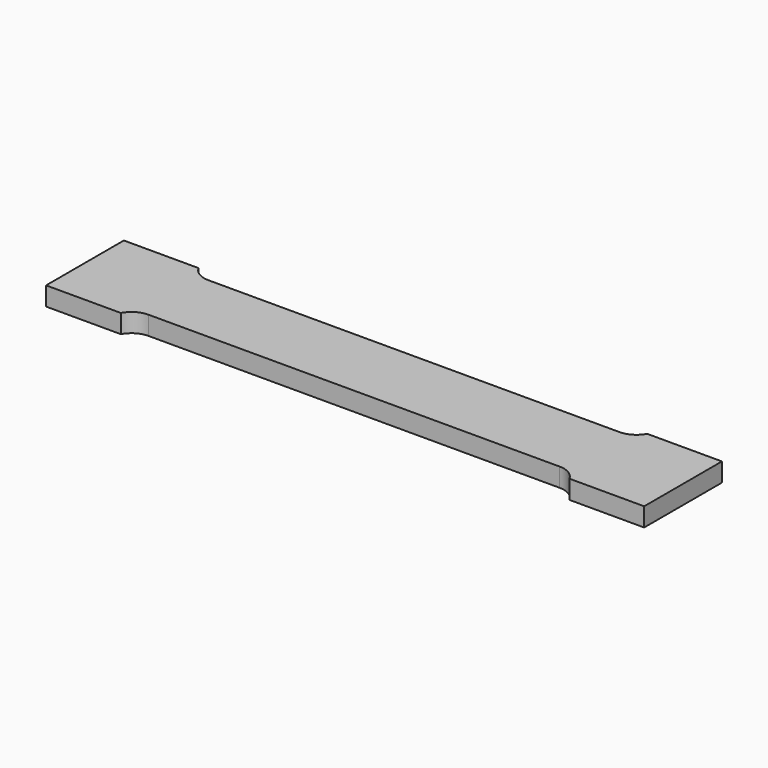
from build123d import *

# Parameters (mm, degrees)
F1_DEPTH = 5


with BuildPart() as f1:
    # F0 (on Top) → F1 (new body)
    with BuildSketch(Plane.XY):
        with BuildLine():
            Line((-54.998, -10), (0, -10))
            Line((0, -10), (0, 0))
            Line((0, 0), (-80, 0))
            Line((-80, 0), (-80, -13))
            Line((-80, -13), (-60, -13))
            ThreePointArc((-60, -13), (-57.914334, -10.807501), (-54.998, -10))
        make_face()
        with BuildLine():
            ThreePointArc((54.998, -10), (57.914334, -10.807501), (60, -13))
            Line((60, -13), (80, -13))
            Line((80, -13), (80, 0))
            Line((80, 0), (0, 0))
            Line((0, 0), (0, -10))
            Line((0, -10), (54.998, -10))
        make_face()
        with BuildLine():
            Line((-80, 0), (0, 0))
            Line((0, 0), (0, 10))
            Line((0, 10), (-54.998, 10))
            ThreePointArc((-54.998, 10), (-57.914334, 10.807501), (-60, 13))
            Line((-60, 13), (-80, 13))
            Line((-80, 13), (-80, 0))
        make_face()
        with BuildLine():
            Line((0, 0), (80, 0))
            Line((80, 0), (80, 13))
            Line((80, 13), (60, 13))
            ThreePointArc((60, 13), (57.916618, 10.80758), (55.002, 10))
            Line((55.002, 10), (0, 10))
            Line((0, 10), (0, 0))
        make_face()
    extrude(amount=F1_DEPTH)


solid = f1.part
